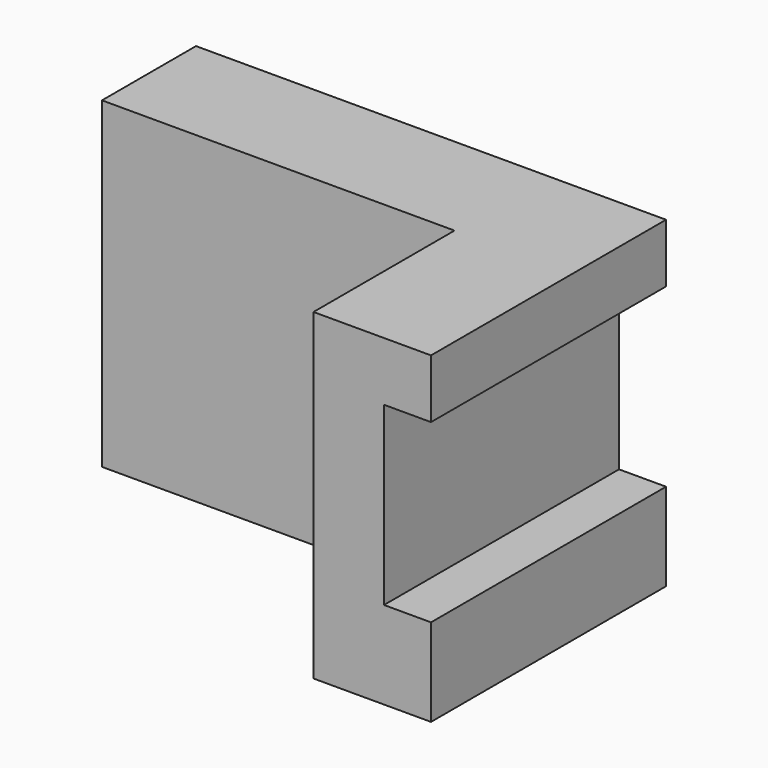
from build123d import *

# Parameters (mm, degrees)
F0_W     = 60
F0_H     = 54.918804
F1_DEPTH = 20
F2_DEPTH = 50


with BuildPart() as f1:
    # F0 (on Front) → F1 (new body)
    with BuildSketch(Plane.XZ):
        with Locations((-30, 27.459402)):
            Rectangle(F0_W, F0_H)
    extrude(amount=F1_DEPTH)

    # F0 (on Front) → F2 (join)
    with BuildSketch(Plane.XZ):
        Polygon((0, 54.918804), (0, 0), (20, 0), (20, 14.918804), (12, 14.918804), (12, 44.918804), (20, 44.918804), (20, 54.918804), align=None)
    extrude(amount=F2_DEPTH)


solid = f1.part
